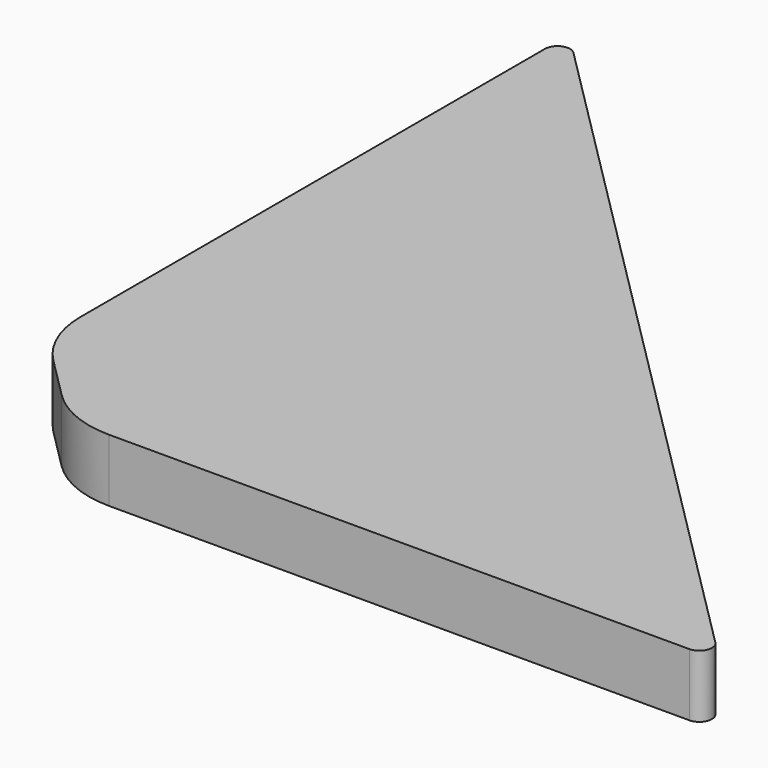
from build123d import *

# Parameters (mm, degrees)
F1_DEPTH = 3.175
F2_R     = 0.635
F3_R     = 5.08


with BuildPart() as f1:
    # F0 (on Top) → F1 (new body)
    with BuildSketch(Plane.XY):
        Polygon((0, 5.08), (5.08, 0), (38.1, 0), (0, 38.1), align=None)
    extrude(amount=F1_DEPTH)

    # F2
    f2_edges = [f1.edges().sort_by_distance(p)[0] for p in [
        (0, 38.1, 1.5875),
        (38.1, 0, 1.5875),
    ]]
    fillet(f2_edges, radius=F2_R)

    # F3
    f3_edges = [f1.edges().sort_by_distance(p)[0] for p in [
        (5.08, 0, 1.5875),
        (0, 5.08, 1.5875),
    ]]
    fillet(f3_edges, radius=F3_R)


solid = f1.part
